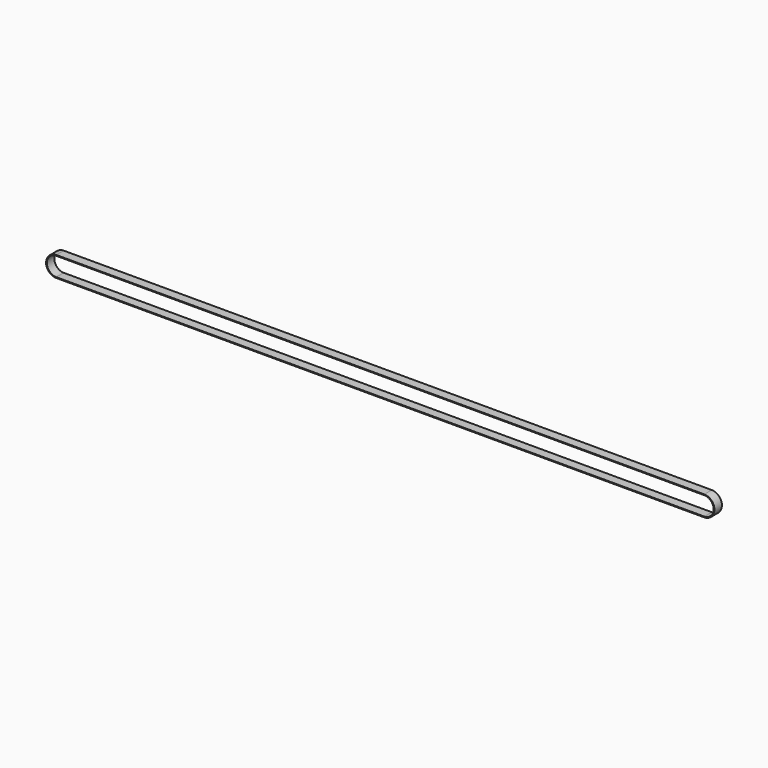
from build123d import *

# Parameters (mm, degrees)
F1_DEPTH = 6


with BuildPart() as f1:
    # F0 (on Front) → F1 (new body)
    with BuildSketch(Plane.XZ):
        with BuildLine():
            Line((0, 6.5), (-207.5, 6.5))
            ThreePointArc((-207.5, 6.5), (-214, 0), (-207.5, -6.5))
            Line((-207.5, -6.5), (0, -6.5))
            Line((0, -6.5), (207.5, -6.5))
            ThreePointArc((207.5, -6.5), (214, 0), (207.5, 6.5))
            Line((207.5, 6.5), (0, 6.5))
        make_face()
        with BuildLine():
            ThreePointArc((-207.5, -6), (-213.5, 0), (-207.5, 6))
            Line((-207.5, 6), (0, 6))
            Line((0, 6), (207.5, 6))
            ThreePointArc((207.5, 6), (213.5, 0), (207.5, -6))
            Line((207.5, -6), (0, -6))
            Line((0, -6), (-207.5, -6))
        make_face(mode=Mode.SUBTRACT)
    extrude(amount=F1_DEPTH)


solid = f1.part
